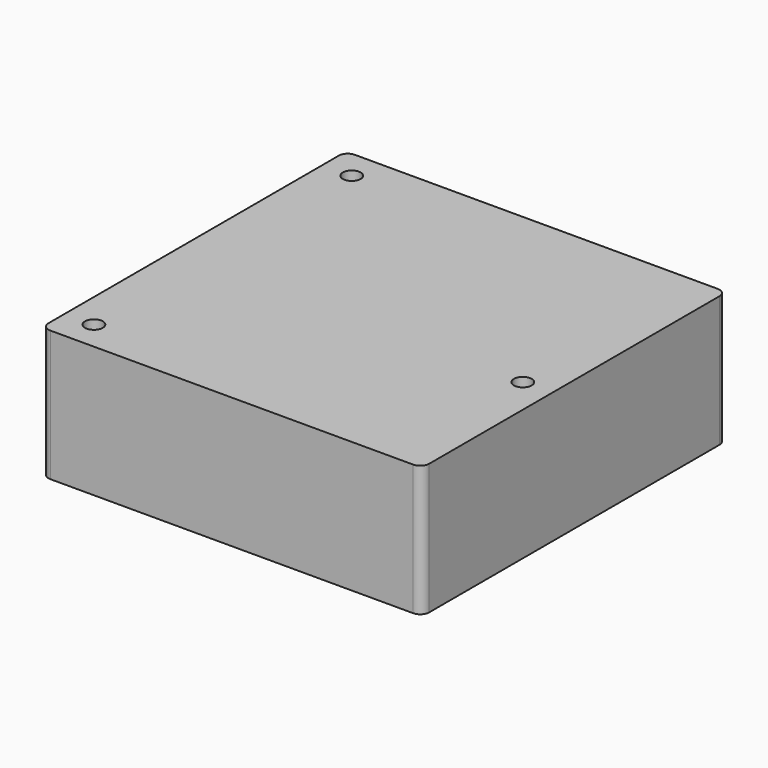
from build123d import *

# Parameters (mm, degrees)
F0_R     = 1.5
F1_DEPTH = 22
F2_DEPTH = 4


with BuildPart() as f1:
    # F0 (on Top) → F1 (new body)
    with BuildSketch(Plane.XY):
        with BuildLine():
            Line((-30.5, -32), (30.5, -32))
            ThreePointArc((30.5, -32), (31.56066, -31.56066), (32, -30.5))
            Line((32, -30.5), (32, 30.5))
            ThreePointArc((32, 30.5), (31.56066, 31.56066), (30.5, 32))
            Line((30.5, 32), (-30.5, 32))
            ThreePointArc((-30.5, 32), (-31.56066, 31.56066), (-32, 30.5))
            Line((-32, 30.5), (-32, -30.5))
            ThreePointArc((-32, -30.5), (-31.56066, -31.56066), (-30.5, -32))
        make_face()
        with Locations((-27.1, -27.1)):
            Circle(F0_R, mode=Mode.SUBTRACT)
        with Locations((-4.5, -25.5)):
            Circle(F0_R, mode=Mode.SUBTRACT)
        with Locations((-4.5, -10.5)):
            Circle(F0_R, mode=Mode.SUBTRACT)
        with Locations((25.5, -25.5)):
            Circle(F0_R, mode=Mode.SUBTRACT)
        with Locations((25.5, -10.5)):
            Circle(F0_R, mode=Mode.SUBTRACT)
        with Locations((27.1, -4.7)):
            Circle(F0_R, mode=Mode.SUBTRACT)
        with Locations((-27.1, 27.1)):
            Circle(F0_R, mode=Mode.SUBTRACT)
        with Locations((25.5, -25.5)):
            Circle(F0_R)
        with Locations((-4.5, -25.5)):
            Circle(F0_R)
        with Locations((-4.5, -10.5)):
            Circle(F0_R)
        with Locations((25.5, -10.5)):
            Circle(F0_R)
    extrude(amount=F1_DEPTH)

    # F0 (on Top) → F2 (cut)
    with BuildSketch(Plane.XY):
        with Locations((25.5, -10.5)):
            Circle(F0_R)
        with Locations((-4.5, -10.5)):
            Circle(F0_R)
        with Locations((-4.5, -25.5)):
            Circle(F0_R)
        with Locations((25.5, -25.5)):
            Circle(F0_R)
    extrude(amount=F2_DEPTH, mode=Mode.SUBTRACT)


solid = f1.part
